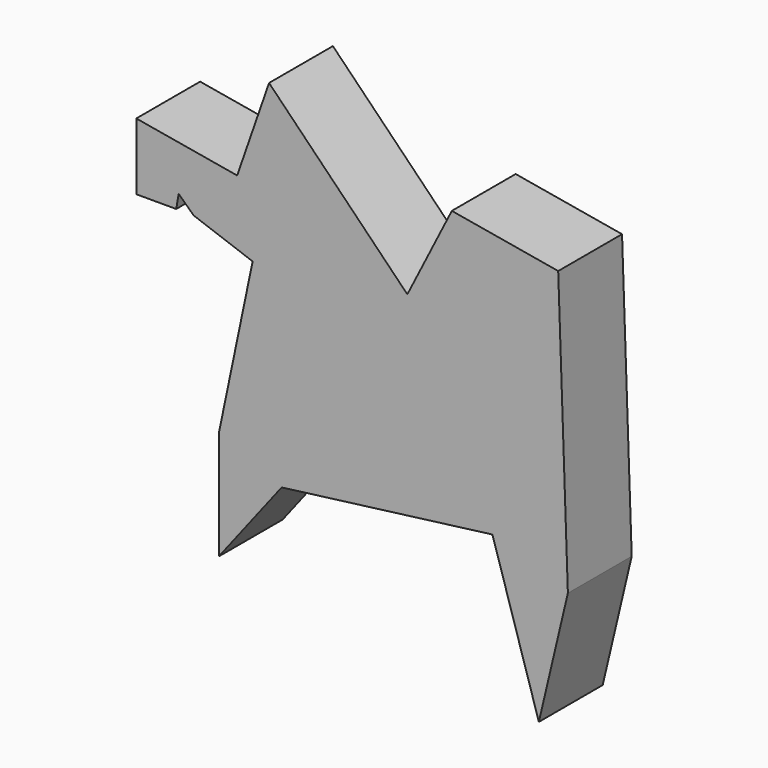
from build123d import *

# Parameters (mm, degrees)
F1_DEPTH = 25.4


with BuildPart() as f1:
    # F0 (on Front) → F1 (new body)
    with BuildSketch(Plane.XZ):
        Polygon((-45.860332, 36.165029), (-27.085295, 29.393705), (-37.857857, -22.314591), (-37.857857, -56.786787), (-17.851671, -30.932641), (49.245998, -22.314591), (64.019799, -70.021652), (73.253423, -30.932641), (70.175551, 58.325727), (36.318928, 64.173691), (22.160703, 36.165029), (-21.852907, 81.102006), (-32.009896, 51.862191), (-64.11405, 57.407457), (-64.11405, 36.165029), (-51.400505, 36.165029), (-50.624281, 40.658958), align=None)
    extrude(amount=F1_DEPTH)


solid = f1.part
